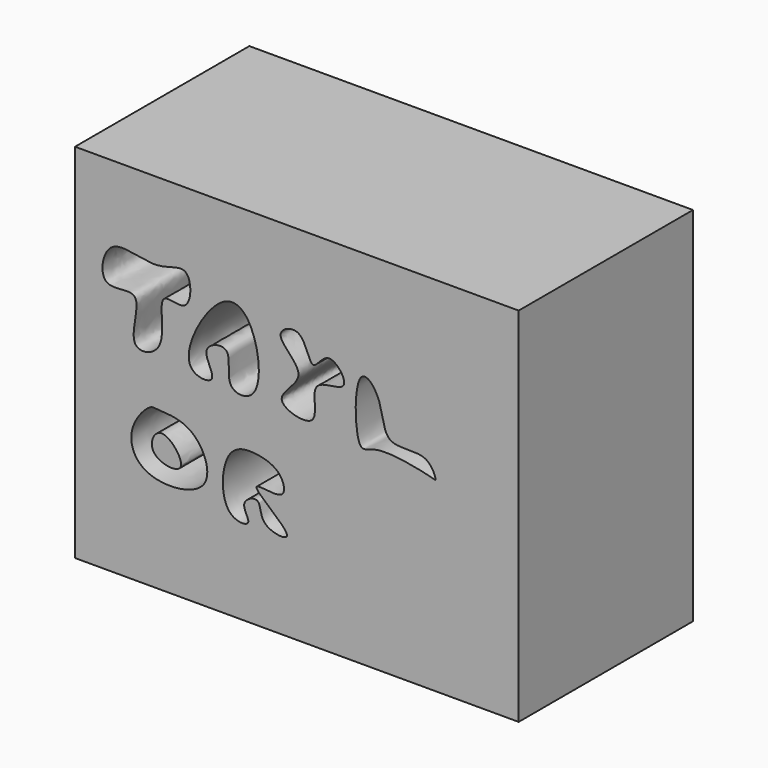
from build123d import *

# Parameters (mm, degrees)
F0_W     = 103.4339563921
F0_H     = 84.427235648
F1_DEPTH = 25.4
F2_T     = -2.54
F3_W     = 103.4339563921
F3_H     = 84.427235648
F4_DEPTH = 25.4


with BuildPart() as f1:
    # F0 (on Front) → F1 (new body)
    with BuildSketch(Plane.XZ):
        with Locations((-46.1213714443, -13.6532234028)):
            Rectangle(F0_W, F0_H)
    extrude(amount=F1_DEPTH)

    # F2
    f2_openings = [f1.faces().sort_by_distance(p)[0] for p in [
        (-46.121371, 0, -13.653223),
    ]]
    offset(amount=F2_T, openings=f2_openings)

    # F3 (on face) → F4 (join)
    with BuildSketch(Plane.XZ.offset(25.4)):
        with Locations((-46.1213714443, -13.6532234028)):
            Rectangle(F3_W, F3_H)
        with BuildLine():
            add(Edge.make_bspline(
                [(-80.3583413363, -19.2522145808), (-81.6140292445, -19.9303025098), (-86.2794084309, -25.2048194591), (-82.6460167469, -35.1992844389), (-63.602063579, -33.4930929899), (-69.5917494495, -18.9831283821), (-78.5573314183, -19.2982619828), (-79.7347541311, -18.9154693165), (-80.3583413363, -19.2522145808)],
                knots=[0, 0, 0, 0, 0.1621520352, 0.3363729102, 0.556454101, 0.7495789883, 0.9194736735, 1, 1, 1, 1], degree=3))
        make_face(mode=Mode.SUBTRACT)
        with BuildLine():
            add(Edge.make_bspline(
                [(-61.6422593594, -22.6686429232), (-63.8104166029, -25.5798375693), (-64.2608356333, -36.335784186), (-55.589330959, -36.2872011877), (-60.0665740302, -31.6254889362), (-54.0522286833, -28.7808990254), (-55.3544220028, -35.4398716651), (-43.352361748, -36.9101374235), (-60.9630558672, -25.0968260705), (-48.1834601732, -28.9812235733), (-49.5088458041, -22.5428030657), (-54.8462293978, -20.4769871389), (-60.0082719178, -20.4746805131), (-61.6422593594, -22.6686429232)],
                knots=[0, 0, 0, 0, 0.1329567742, 0.2110432951, 0.2840716357, 0.3542192665, 0.4357979485, 0.5218707746, 0.6447457177, 0.7353180846, 0.8087311691, 0.8997998416, 1, 1, 1, 1], degree=3))
        make_face(mode=Mode.SUBTRACT)
        with BuildLine():
            add(Edge.make_bspline(
                [(-89.4193053246, 10.6043955311), (-86.9679747108, 12.4996654819), (-79.0531787293, 8.4335407774), (-70.6338501593, 14.1329251786), (-70.5704524745, 1.7581572898), (-79.8031885243, 6.9729203471), (-75.1860276017, -7.3896985234), (-87.0106965365, -9.8455184327), (-80.476280889, 5.6068303387), (-92.861108222, 0.2111872855), (-91.4863204495, 9.006262814), (-89.4193053246, 10.6043955311)],
                knots=[0, 0, 0, 0, 0.131596384, 0.2388534623, 0.3436661253, 0.4334603505, 0.5626834533, 0.6590519462, 0.7849664025, 0.8890350756, 1, 1, 1, 1], degree=3))
        make_face(mode=Mode.SUBTRACT)
        with BuildLine():
            add(Edge.make_bspline(
                [(-70.8517581224, -7.8146085143), (-69.7418149189, -9.6895810898), (-63.129425641, -9.9577556699), (-69.7976838412, -2.5711584389), (-60.3030145588, 0.2677944891), (-63.6643056961, -9.964966075), (-53.4427838779, -10.544085157), (-55.5419188602, 6.7420568229), (-64.4892685829, 11.147243549), (-72.914759355, -4.3296817885), (-70.8517581224, -7.8146085143)],
                knots=[0, 0, 0, 0, 0.1006333096, 0.2075425782, 0.3052559593, 0.4239880065, 0.5253294794, 0.6956957388, 0.8129574188, 1, 1, 1, 1], degree=3))
        make_face(mode=Mode.SUBTRACT)
        with BuildLine():
            add(Edge.make_bspline(
                [(-31.0429483652, 3.0288372654), (-32.9003676299, 1.2211075107), (-32.6024449228, -14.2497627858), (-27.6681644927, -9.1584398329), (-14.5575383797, -12.2510155108), (-13.4999276079, -12.7010675037), (-15.4785258708, -6.8699806212), (-26.3315368498, -10.2645923734), (-25.7772654277, -0.1367595452), (-29.9476466273, 4.0948375917), (-31.0429483652, 3.0288372654)],
                knots=[0, 0, 0, 0, 0.1874521292, 0.2856512759, 0.4677560975, 0.5010635965, 0.6018317463, 0.7451940326, 0.8894613366, 1, 1, 1, 1], degree=3))
        make_face(mode=Mode.SUBTRACT)
        with BuildLine():
            add(Edge.make_bspline(
                [(-49.9075725675, 5.5540231988), (-49.9924298752, 3.6269753967), (-41.4593102983, -1.2645306275), (-54.2207635994, -8.2210934951), (-39.228194728, -12.3585551602), (-44.5515991551, 0.0122335579), (-32.0692482176, -2.0884023247), (-38.8656586878, 7.2192253141), (-42.9291402206, -1.408345867), (-44.3092752736, 9.4767839122), (-49.84414882, 6.9943304198), (-49.9075725675, 5.5540231988)],
                knots=[0, 0, 0, 0, 0.124758939, 0.2462978958, 0.3647049647, 0.4844965741, 0.5982971018, 0.7021563661, 0.7956342414, 0.9067531171, 1, 1, 1, 1], degree=3))
        make_face(mode=Mode.SUBTRACT)
        with BuildLine():
            add(Edge.make_bspline(
                [(-77.6846185327, -23.7084254622), (-79.453153641, -23.7383386452), (-81.867747298, -29.5968491607), (-69.5116015381, -31.3382449476), (-75.537295953, -23.6721054294), (-77.6846185327, -23.7084254622)],
                knots=[0, 0, 0, 0, 0.2974300024, 0.6388659988, 1, 1, 1, 1], degree=3))
        make_face()
    extrude(amount=F4_DEPTH)


solid = f1.part
